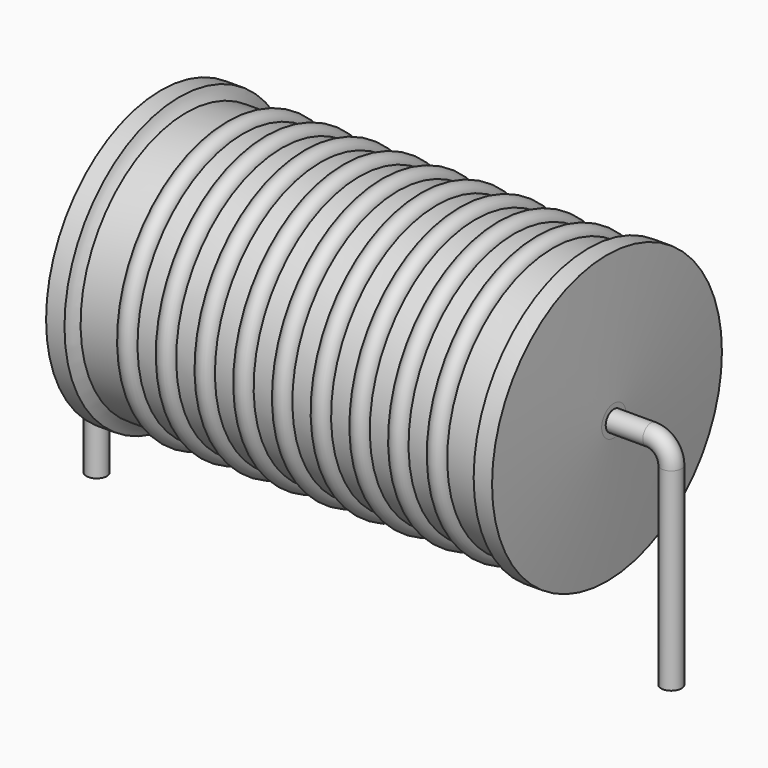
from build123d import *

# Parameters (mm, degrees)
SKETCH_R = 0.45


with BuildPart() as revolution:
    # Sketch002 → Revolution (revolve)
    with BuildSketch(Plane.XZ):
        with BuildLine():
            Line((2.8448, 12.8), (3.6576, 12.8))
            ThreePointArc((3.6576, 12.8), (3.78271, 12.529626), (3.9624, 12.292))
            Line((3.9624, 12.292), (21.4376, 12.292))
            ThreePointArc((21.4376, 12.292), (21.61729, 12.529626), (21.7424, 12.8))
            Line((21.7424, 12.8), (22.5552, 12.8))
            ThreePointArc((22.86, 7.125), (22.724275, 9.963396), (22.5552, 12.8))
            Line((22.86, 6.45), (22.86, 7.125))
            Line((2.54, 6.45), (22.86, 6.45))
            Line((2.54, 6.45), (2.54, 7.125))
            ThreePointArc((2.8448, 12.8), (2.675725, 9.963396), (2.54, 7.125))
        make_face()
    revolve(axis=Axis((2.54, 0, 6.45), (1, 0, 0)))


with BuildPart() as revolution001:
    # Sketch003 → Revolution001 (revolve)
    with BuildSketch(Plane.XZ):
        with BuildLine():
            ThreePointArc((6.486358, 12.21072), (6.058568, 12.638509), (5.630779, 12.21072))
            Line((4.7752, 12.21072), (5.630779, 12.21072))
            Line((4.7752, 12.21072), (4.7752, 10.94072))
            Line((4.7752, 10.94072), (21.0312, 10.94072))
            Line((21.0312, 10.94072), (21.0312, 12.21072))
            Line((20.175621, 12.21072), (21.0312, 12.21072))
            ThreePointArc((20.175621, 12.21072), (19.747832, 12.638509), (19.320042, 12.21072))
            Line((18.464463, 12.21072), (19.320042, 12.21072))
            ThreePointArc((18.464463, 12.21072), (18.036674, 12.638509), (17.608884, 12.21072))
            Line((16.753305, 12.21072), (17.608884, 12.21072))
            ThreePointArc((16.753305, 12.21072), (16.325516, 12.638509), (15.897726, 12.21072))
            Line((15.042147, 12.21072), (15.897726, 12.21072))
            ThreePointArc((15.042147, 12.21072), (14.614358, 12.638509), (14.186568, 12.21072))
            Line((13.330989, 12.21072), (14.186568, 12.21072))
            ThreePointArc((13.330989, 12.21072), (12.9032, 12.638509), (12.475411, 12.21072))
            Line((11.619832, 12.21072), (12.475411, 12.21072))
            ThreePointArc((11.619832, 12.21072), (11.192042, 12.638509), (10.764253, 12.21072))
            Line((9.908674, 12.21072), (10.764253, 12.21072))
            ThreePointArc((9.908674, 12.21072), (9.480884, 12.638509), (9.053095, 12.21072))
            Line((8.197516, 12.21072), (9.053095, 12.21072))
            ThreePointArc((8.197516, 12.21072), (7.769726, 12.638509), (7.341937, 12.21072))
            Line((6.486358, 12.21072), (7.341937, 12.21072))
        make_face()
    revolve(axis=Axis((3.048, 0, 6.45), (1, 0, 0)))


with BuildPart() as obj1:
    # Sweep: sweep along a path in Sketch001
    with BuildLine(Plane.XZ) as sweep_path:
        Line((0, -3), (0, 5.55))
        ThreePointArc((0, 5.55), (0.263601, 6.186393), (0.899993, 6.45))
        Line((0.899993, 6.45), (24.5, 6.45))
        ThreePointArc((24.5, 6.45), (25.136396, 6.186396), (25.4, 5.55))
        Line((25.4, 5.55), (25.4, -3))
    # Sketch → Sweep (sweep)
    with BuildSketch(Plane.XY.offset(-2)):
        Circle(SKETCH_R)
    sweep(path=sweep_path.line)

    # obj1: union Revolution, Revolution001
    add(revolution.part)
    add(revolution001.part)


solid = obj1.part
